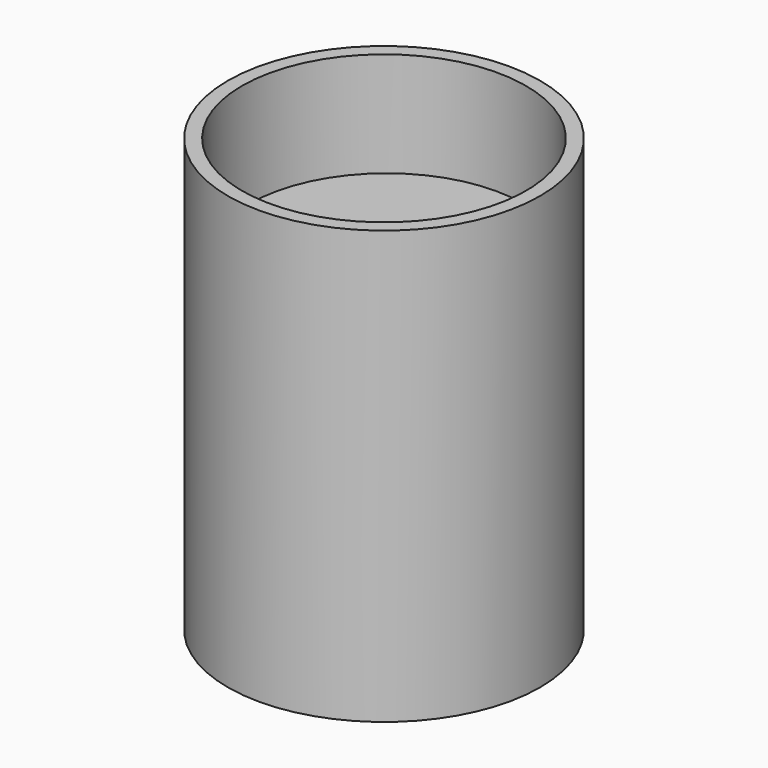
from build123d import *

# Parameters (mm, degrees)
F2_T     = -2.54
F3_R     = 24.656533
F4_DEPTH = 57.64441


with BuildPart() as f1:
    # F0 (on Front) → F1 (revolve)
    with BuildSketch(Plane.XZ):
        Polygon((15.232669, 18.233048), (-12.924691, 18.233048), (-12.924691, -7.154734), (-12.924691, -33.004116), (-12.924691, -59.776686), (15.232669, -59.776686), align=None)
    revolve(axis=Axis((15.232669, 0, -20.771819), (0, 0, -1)))

    # F2
    f2_openings = [f1.faces().sort_by_distance(p)[0] for p in [
        (15.232669, 0, 18.233048),
    ]]
    offset(amount=F2_T, openings=f2_openings)


with BuildPart() as f4:
    # F3 (on Top) → F4 (new body)
    with BuildSketch(Plane.XY):
        with Locations((15.694266, 0)):
            Circle(F3_R)
    extrude(amount=-F4_DEPTH)


solid = Compound([f1.part, f4.part])
